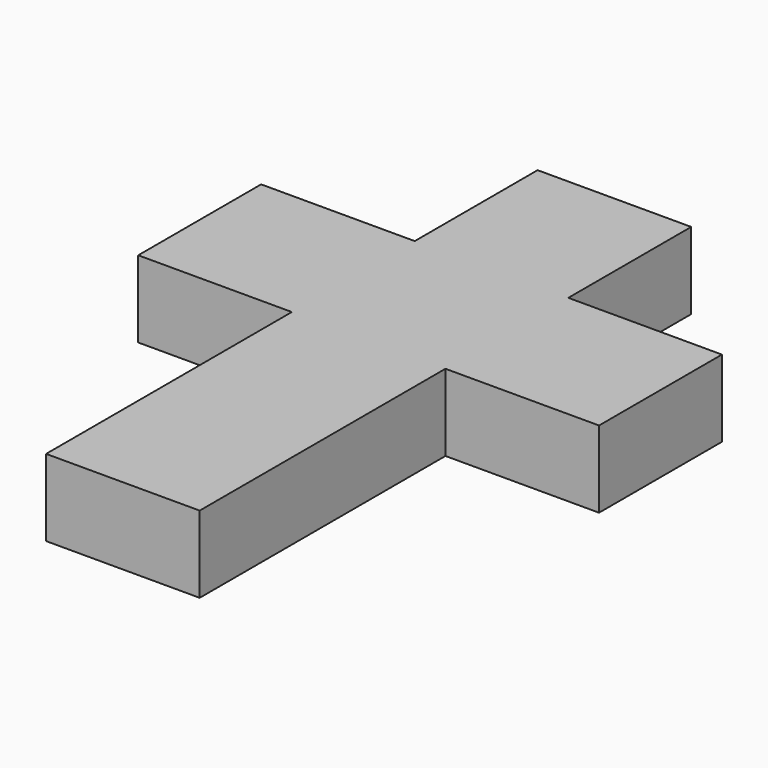
from build123d import *

# Parameters (mm, degrees)
F0_W     = 12.7
F0_H     = 25.4
F0_H_2   = 12.7
F1_DEPTH = 6.35


with BuildPart() as f1:
    # F0 (on Top) → F1 (new body)
    with BuildSketch(Plane.XY):
        with Locations((6.35, 12.7)):
            Rectangle(F0_W, F0_H)
        with Locations((-6.35, 31.75)):
            Rectangle(F0_W, F0_H_2)
        with Locations((6.35, 31.75)):
            Rectangle(F0_W, F0_H_2)
        with Locations((19.05, 31.75)):
            Rectangle(F0_W, F0_H_2)
        with Locations((6.35, 44.45)):
            Rectangle(F0_W, F0_H_2)
    extrude(amount=F1_DEPTH)


solid = f1.part
